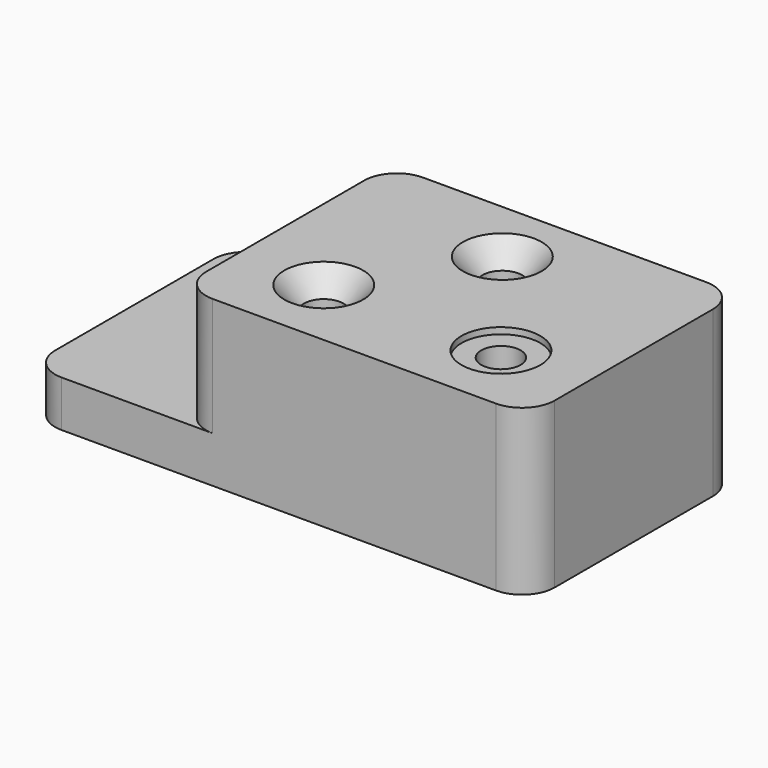
from build123d import *

# Parameters (mm, degrees)
F1_DEPTH       = 79.502
F2_DEPTH       = 22.352
F4_D           = 19.05
F4_CSINK_D     = 38.1
F4_CSINK_ANGLE = 82
F5_D           = 19.05
F5_CSINK_D     = 38.1
F5_CSINK_ANGLE = 82
F6_D           = 19.05
F6_CBORE_D     = 38.1
F6_CBORE_DEPTH = 3.048
F8_D           = 19.05
F8_CBORE_D     = 38.1
F8_CBORE_DEPTH = 3.048


with BuildPart() as f1:
    # F0 (on Top) → F1 (new body)
    with BuildSketch(Plane.XY):
        with BuildLine():
            Line((152.654, 127), (15.748, 127))
            ThreePointArc((15.748, 127), (4.612482, 122.387518), (0, 111.252))
            Line((0, 111.252), (0, 15.748))
            ThreePointArc((0, 15.748), (4.612482, 4.612482), (15.748, 0))
            Line((15.748, 0), (152.654, 0))
            ThreePointArc((152.654, 0), (163.789518, 4.612482), (168.402, 15.748))
            Line((168.402, 15.748), (168.402, 111.252))
            ThreePointArc((168.402, 111.252), (163.789518, 122.387518), (152.654, 127))
        make_face()
    extrude(amount=F1_DEPTH)

    # F0 (on Top) → F2 (join)
    with BuildSketch(Plane.XY):
        with BuildLine():
            ThreePointArc((0, 111.252), (4.612482, 122.387518), (15.748, 127))
            Line((15.748, 127), (-57.15, 127))
            ThreePointArc((-57.15, 127), (-68.285518, 122.387518), (-72.898, 111.252))
            Line((-72.898, 111.252), (-72.898, 15.748))
            ThreePointArc((-72.898, 15.748), (-68.285518, 4.612482), (-57.15, 0))
            Line((-57.15, 0), (15.748, 0))
            ThreePointArc((15.748, 0), (4.612482, 4.612482), (0, 15.748))
            Line((0, 15.748), (0, 111.252))
        make_face()
    extrude(amount=F2_DEPTH)

    # F4 (through all)
    with Locations(Plane.XY.offset(79.502)):
        with Locations((41.402, 35.052)):
            CounterSinkHole(F4_D / 2, F4_CSINK_D / 2, counter_sink_angle=F4_CSINK_ANGLE)

    # F5 (through all)
    with Locations(Plane.XY.offset(79.502)):
        with Locations((79.502, 95.25)):
            CounterSinkHole(F5_D / 2, F5_CSINK_D / 2, counter_sink_angle=F5_CSINK_ANGLE)

    # F6 (through all)
    with Locations(Plane.XY.offset(79.502)):
        with Locations((127, 35.052)):
            CounterBoreHole(F6_D / 2, F6_CBORE_D / 2, F6_CBORE_DEPTH)

    # F8 (through all)
    with Locations(Plane.XY.offset(22.352)):
        with Locations((-37.846, 95.25)):
            CounterBoreHole(F8_D / 2, F8_CBORE_D / 2, F8_CBORE_DEPTH)


solid = f1.part
